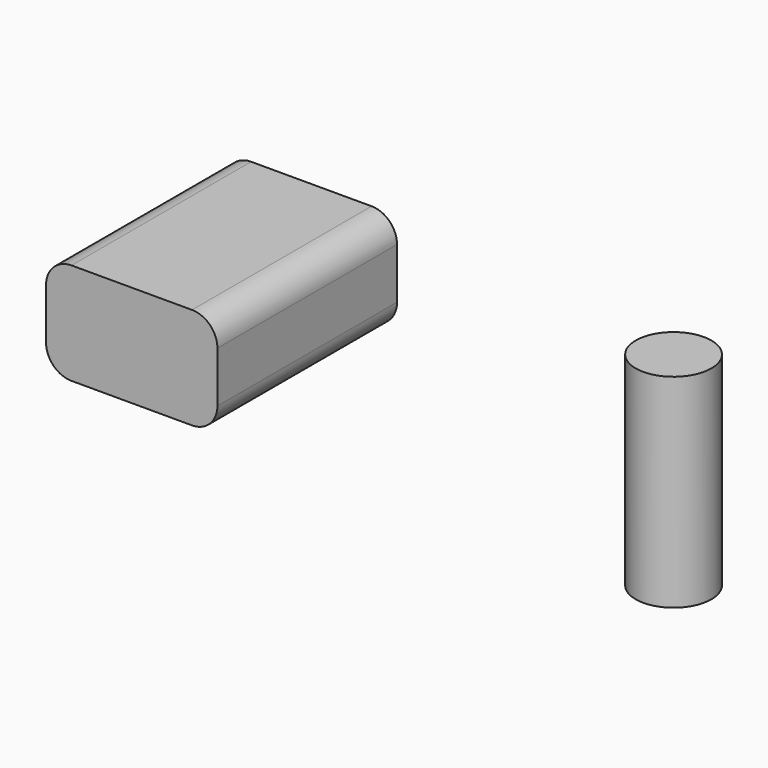
from build123d import *

# Parameters (mm, degrees)
F0_R     = 1.890456
F1_DEPTH = 10.16
F2_W     = 8.561958
F2_H     = 11.21911
F3_DEPTH = 5.08
F4_R     = 1.27
F5_R     = 1.27
F6_R     = 1.27
F7_R     = 1.27


with BuildPart() as f1:
    # F0 (on Top) → F1 (new body)
    with BuildSketch(Plane.XY):
        with Locations((-31.590663, 33.952583)):
            Circle(F0_R)
    extrude(amount=F1_DEPTH)


with BuildPart() as f3:
    # F2 (on Top) → F3 (new body)
    with BuildSketch(Plane.XY):
        with Locations((-57.719393, 38.38118)):
            Rectangle(F2_W, F2_H)
    extrude(amount=F3_DEPTH)

    # F4
    f4_edges = [f3.edges().sort_by_distance(p)[0] for p in [
        (-62.000372, 38.38118, 5.08),
    ]]
    fillet(f4_edges, radius=F4_R)

    # F5
    f5_edges = [f3.edges().sort_by_distance(p)[0] for p in [
        (-53.438414, 38.38118, 5.08),
    ]]
    fillet(f5_edges, radius=F5_R)

    # F6
    f6_edges = [f3.edges().sort_by_distance(p)[0] for p in [
        (-53.438414, 38.38118, 0),
    ]]
    fillet(f6_edges, radius=F6_R)

    # F7
    f7_edges = [f3.edges().sort_by_distance(p)[0] for p in [
        (-62.000372, 38.38118, 0),
    ]]
    fillet(f7_edges, radius=F7_R)


solid = Compound([f1.part, f3.part])
